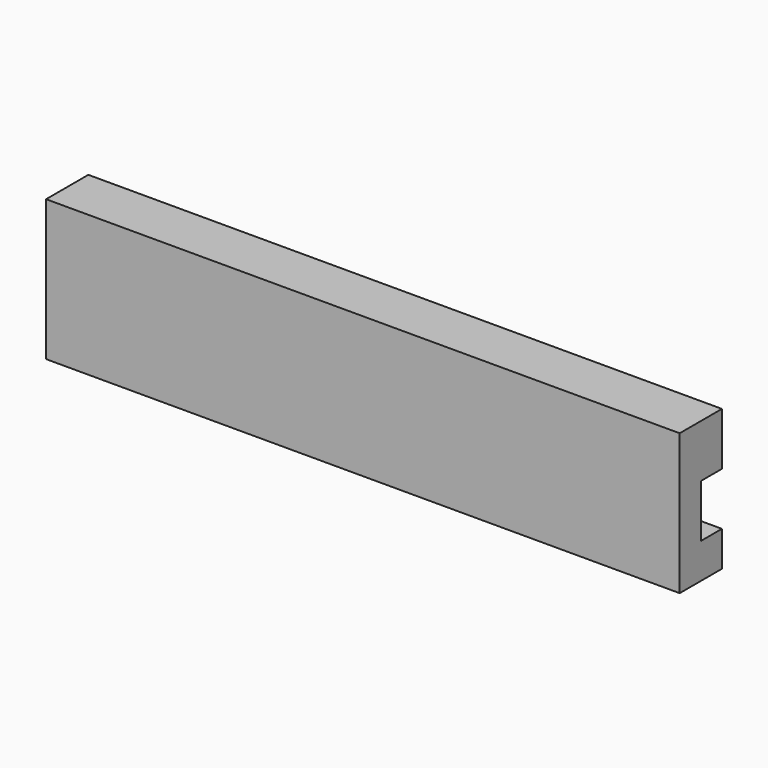
from build123d import *

# Parameters (mm, degrees)
F0_W     = 228.6
F0_H     = 19.05
F0_H_2   = 12.7
F1_DEPTH = 9.525
F2_DEPTH = 9.525


with BuildPart() as f1:
    # F0 (on Front) → F1 (new body)
    with BuildSketch(Plane.XZ):
        with Locations((10.174761, 36.961171)):
            Rectangle(F0_W, F0_H)
        with Locations((10.174761, 17.911171)):
            Rectangle(F0_W, F0_H)
        with Locations((10.174761, 2.036171)):
            Rectangle(F0_W, F0_H_2)
    extrude(amount=F1_DEPTH)

    # F0 (on Front) → F2 (join)
    with BuildSketch(Plane.XZ):
        with Locations((10.174761, 2.036171)):
            Rectangle(F0_W, F0_H_2)
        with Locations((10.174761, 36.961171)):
            Rectangle(F0_W, F0_H)
    extrude(amount=-F2_DEPTH)


solid = f1.part
